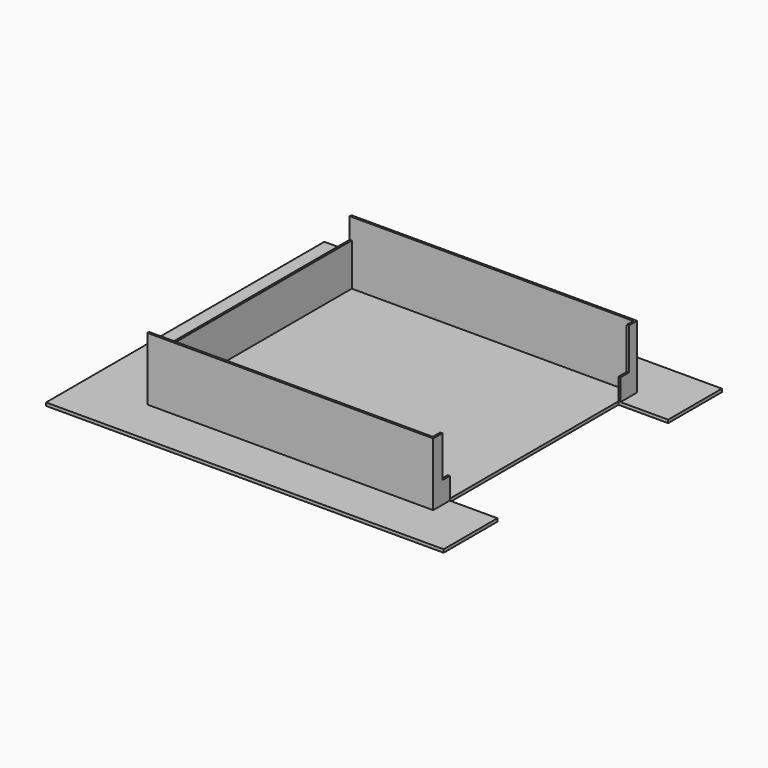
from build123d import *

# Parameters (mm, degrees)
F0_W     = 6.35
F0_H     = 28.575
F0_H_2   = 31.75
F1_DEPTH = 9.525
F2_DEPTH = 76.2
F3_DEPTH = 203.2
F4_DEPTH = 139.7
F5_DEPTH = 203.2


with BuildPart() as f1:
    # F0 (on Top) → F1 (new body)
    with BuildSketch(Plane.XY):
        Polygon((-609.6, -533.4), (609.6, -533.4), (609.6, -327.277558), (463.55, -327.277558), (463.55, -355.852558), (463.55, -390.777558), (457.2, -390.777558), (-412.75, -390.777558), (-412.75, -384.427558), (-412.75, 0), (-412.75, 384.427558), (-412.75, 390.777558), (457.2, 390.777558), (463.55, 390.777558), (463.55, 359.027558), (463.55, 327.277558), (609.6, 327.277558), (609.6, 533.4), (-609.6, 533.4), (-609.6, 0), align=None)
        with Locations((460.375, -341.565058)):
            Rectangle(F0_W, F0_H)
        Polygon((457.2, -355.852558), (457.2, -327.277558), (457.2, 0), (457.2, 327.277558), (457.2, 359.027558), (457.2, 384.427558), (-406.4, 384.427558), (-406.4, 0), (-406.4, -384.427558), (457.2, -384.427558), align=None)
        with Locations((460.375, 343.152558)):
            Rectangle(F0_W, F0_H_2)
    extrude(amount=F1_DEPTH)

    # F0 (on Top) → F2 (join)
    with BuildSketch(Plane.XY):
        with Locations((460.375, 343.152558)):
            Rectangle(F0_W, F0_H_2)
        with Locations((460.375, -341.565058)):
            Rectangle(F0_W, F0_H)
    extrude(amount=F2_DEPTH)

    # F0 (on Top) → F3 (join)
    with BuildSketch(Plane.XY):
        Polygon((463.55, -390.777558), (463.55, -355.852558), (457.2, -355.852558), (457.2, -384.427558), (-406.4, -384.427558), (-412.75, -384.427558), (-412.75, -390.777558), (457.2, -390.777558), align=None)
    extrude(amount=F3_DEPTH)

    # F0 (on Top) → F4 (join)
    with BuildSketch(Plane.XY):
        Polygon((-412.75, -384.427558), (-406.4, -384.427558), (-406.4, 0), (-406.4, 384.427558), (-412.75, 384.427558), (-412.75, 0), align=None)
    extrude(amount=F4_DEPTH)

    # F0 (on Top) → F5 (join)
    with BuildSketch(Plane.XY):
        Polygon((457.2, 384.427558), (457.2, 359.027558), (463.55, 359.027558), (463.55, 390.777558), (457.2, 390.777558), (-412.75, 390.777558), (-412.75, 384.427558), (-406.4, 384.427558), align=None)
    extrude(amount=F5_DEPTH)


solid = f1.part
